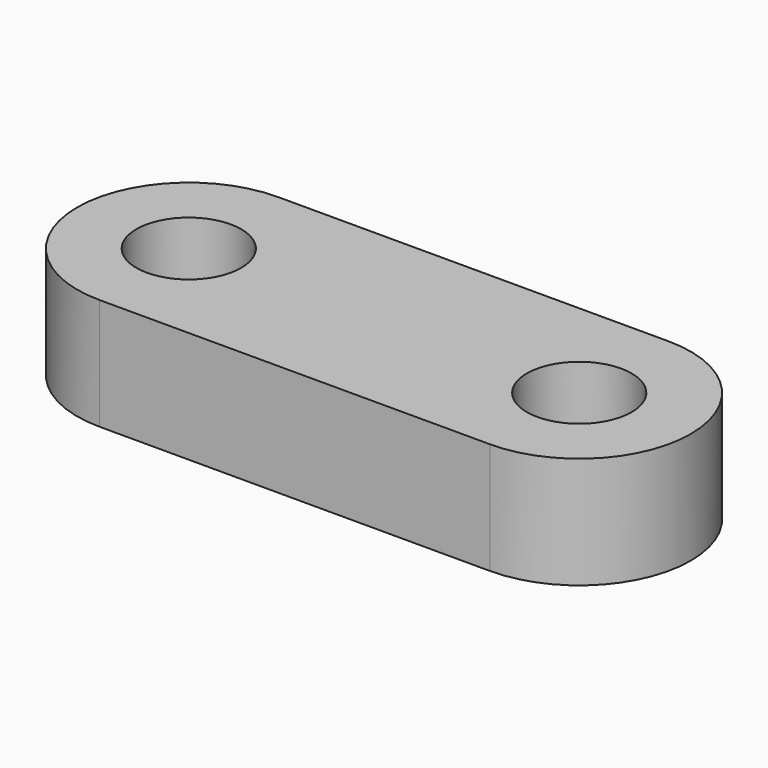
from build123d import *

# Parameters (mm, degrees)
F0_R     = 11.938
F1_DEPTH = 25.4


with BuildPart() as f1:
    # F0 (on Top) → F1 (new body)
    with BuildSketch(Plane.XY):
        with BuildLine():
            Line((44.45, 25.4), (-44.45, 25.4))
            ThreePointArc((-44.45, 25.4), (-69.85, 0), (-44.45, -25.4))
            Line((-44.45, -25.4), (44.45, -25.4))
            ThreePointArc((44.45, -25.4), (69.85, 0), (44.45, 25.4))
        make_face()
        with Locations((-44.45, 0)):
            Circle(F0_R, mode=Mode.SUBTRACT)
        with Locations((44.45, 0)):
            Circle(F0_R, mode=Mode.SUBTRACT)
    extrude(amount=-F1_DEPTH)


solid = f1.part
